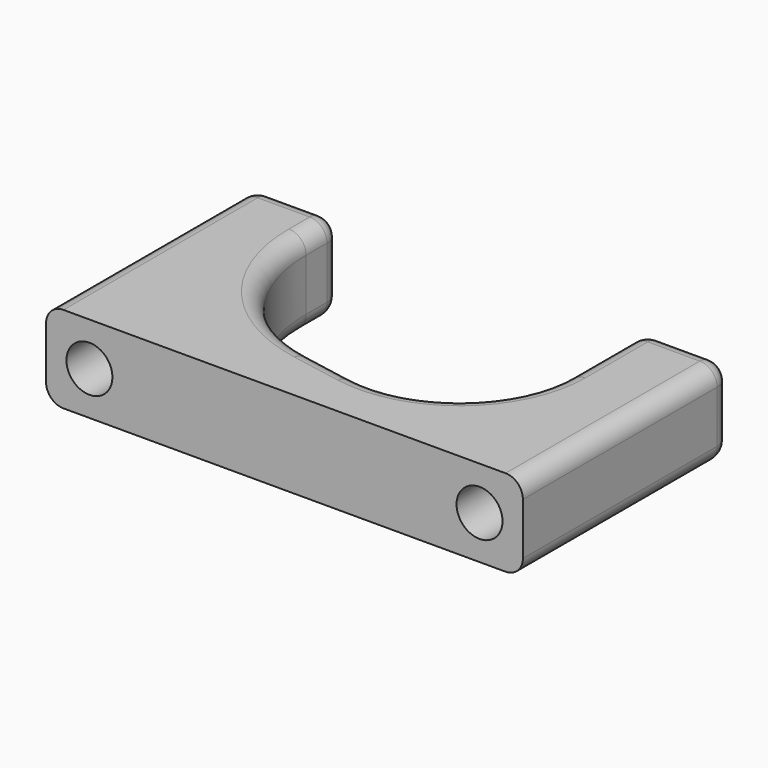
from build123d import *

# Parameters (mm, degrees)
F1_DEPTH = 10
F2_R     = 2.65
F3_DEPTH = 30.001
F4_DEPTH = 30.001
F5_R     = 2
F6_R     = 2


with BuildPart() as f1:
    # F0 (on Top) → F1 (new body)
    with BuildSketch(Plane.XY):
        with BuildLine():
            Line((-10, 30), (-10, 19))
            ThreePointArc((-10, 19), (-14.497695, 9.397234), (-24.754098, 6.704918))
            Line((-24.754098, 6.704918), (-30.655738, 7.786885))
            ThreePointArc((-30.655738, 7.786885), (-40.943872, 13.796773), (-45, 25))
            Line((-45, 25), (-45, 30))
            Line((-45, 30), (-55, 30))
            Line((-55, 30), (-55, 0))
            Line((-55, 0), (0, 0))
            Line((0, 0), (0, 30))
            Line((0, 30), (-10, 30))
        make_face()
    extrude(amount=F1_DEPTH)

    # F2 (on face) → F3 (cut, through all)
    with BuildSketch(Plane(origin=(0, 30, 0), x_dir=(-1, 0, 0), z_dir=(0, 1, 0))):
        with Locations((50, 5)):
            Circle(F2_R)
    extrude(amount=-F3_DEPTH, mode=Mode.SUBTRACT)

    # F2 (on face) → F4 (cut, through all)
    with BuildSketch(Plane(origin=(0, 30, 0), x_dir=(-1, 0, 0), z_dir=(0, 1, 0))):
        with Locations((5, 5)):
            Circle(F2_R)
    extrude(amount=-F4_DEPTH, mode=Mode.SUBTRACT)

    # F5
    f5_edges = [f1.edges().sort_by_distance(p)[0] for p in [
        (-55, 15, 10),
        (0, 15, 10),
        (0, 15, 0),
        (-55, 15, 0),
        (-40.943872, 13.796773, 0),
        (-14.497695, 9.397234, 10),
    ]]
    fillet(f5_edges, radius=F5_R)

    # F6
    f6_edges = [f1.edges().sort_by_distance(p)[0] for p in [
        (-10, 30, 5),
        (-55, 30, 5),
    ]]
    fillet(f6_edges, radius=F6_R)


solid = f1.part
